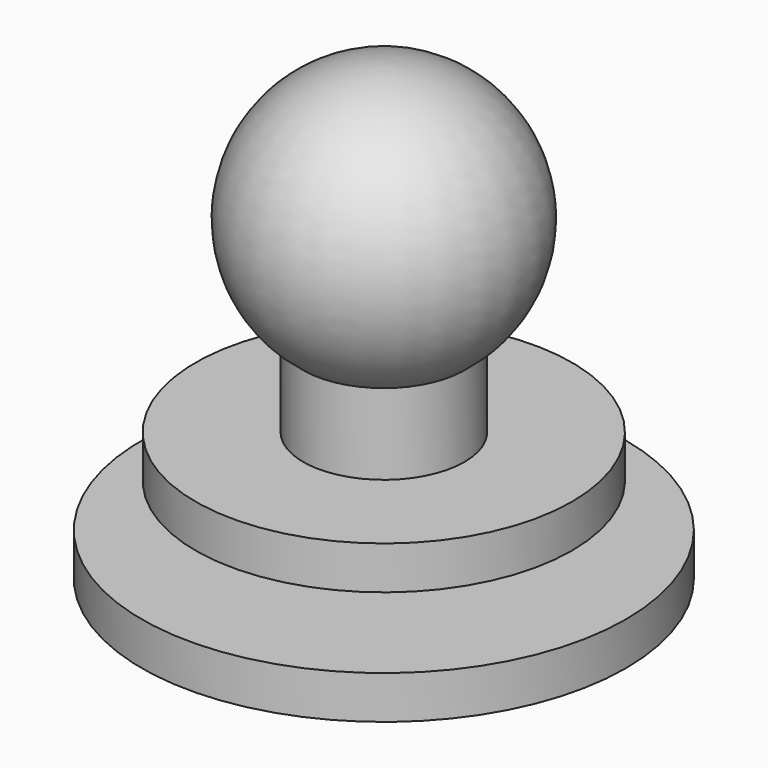
from build123d import *

# Parameters (mm, degrees)
F0_R     = 4.5
F1_DEPTH = 0.8
F2_R     = 1.5
F3_DEPTH = 0.8
F4_R     = 3.5
F4_R_2   = 1.5
F5_DEPTH = 0.8
F6_R     = 1.5
F7_DEPTH = 2


with BuildPart() as f1:
    # F0 (on Top) → F1 (new body)
    with BuildSketch(Plane.XY):
        Circle(F0_R)
    extrude(amount=F1_DEPTH)

    # F2 (on face) → F3 (join)
    with BuildSketch(Plane.XY.offset(0.8)):
        Circle(F2_R)
    extrude(amount=F3_DEPTH)

    # F4 (on face) → F5 (join)
    with BuildSketch(Plane.XY.offset(1.6)):
        Circle(F4_R)
        Circle(F4_R_2, mode=Mode.SUBTRACT)
        Circle(F4_R_2)
    extrude(amount=F5_DEPTH)

    # F6 (on face) → F7 (join)
    with BuildSketch(Plane.XY.offset(2.4)):
        Circle(F6_R)
    extrude(amount=F7_DEPTH)


with BuildPart() as f9:
    # F8 (on Right) → F9 (revolve)
    with BuildSketch(Plane.YZ):
        with BuildLine():
            Line((1.5, 4.4), (1.5, 3.9))
            ThreePointArc((1.5, 3.9), (2.371708, 6.690569), (0, 8.4))
            Line((0, 8.4), (0, 4.4))
            Line((0, 4.4), (1.5, 4.4))
        make_face()
    revolve(axis=Axis((0, 0, 6.4), (0, 0, -1)))


solid = Compound([f1.part, f9.part])
